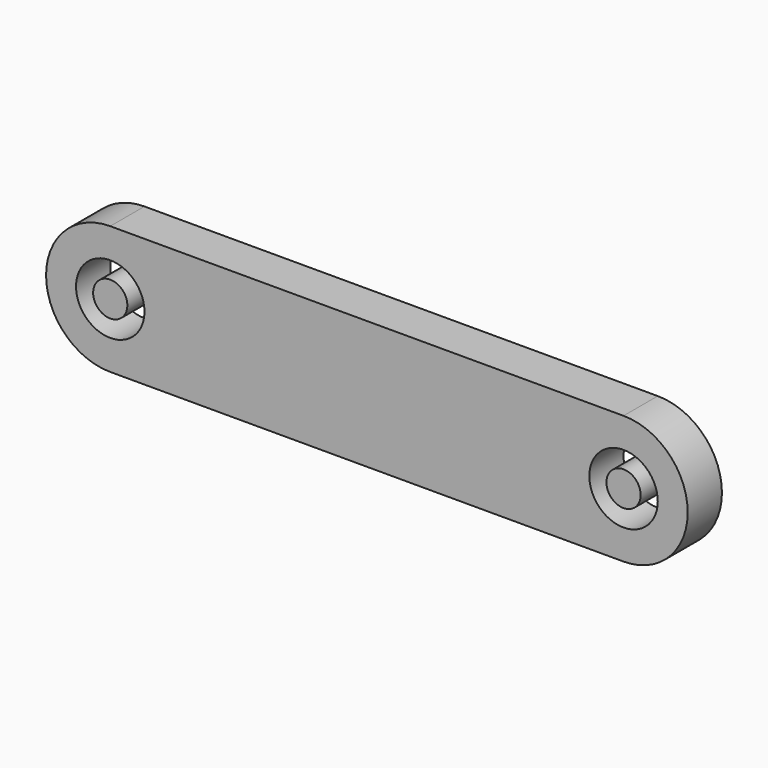
from build123d import *

# Parameters (mm, degrees)
F0_R     = 4
F1_DEPTH = 5
F2_R     = 2
F3_DEPTH = 5


with BuildPart() as f1:
    # F0 (on Front) → F1 (new body)
    with BuildSketch(Plane.XZ):
        with BuildLine():
            Line((60, 7.5), (0, 7.5))
            ThreePointArc((0, 7.5), (-7.5, 0), (0, -7.5))
            Line((0, -7.5), (60, -7.5))
            ThreePointArc((60, -7.5), (67.5, 0), (60, 7.5))
        make_face()
        Circle(F0_R, mode=Mode.SUBTRACT)
        with Locations((60, 0)):
            Circle(F0_R, mode=Mode.SUBTRACT)
    extrude(amount=F1_DEPTH)


with BuildPart() as f3:
    # F2 (on Front) → F3 (new body)
    with BuildSketch(Plane.XZ):
        Circle(F2_R)
        with Locations((60, 0)):
            Circle(F2_R)
    extrude(amount=F3_DEPTH)


solid = Compound([f1.part, f3.part])
